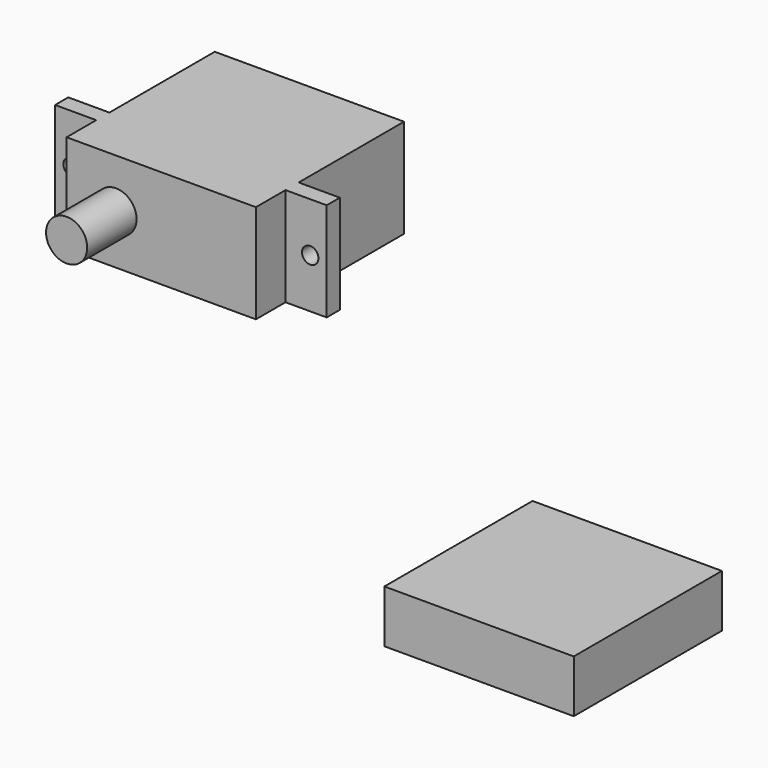
from build123d import *

# Parameters (mm, degrees)
F0_R     = 2.5
F1_DEPTH = 30
F2_DEPTH = 22.5
F3_START = 16
F3_DEPTH = 2
F0_W     = 23.0124
F0_H     = 6.4
F4_DEPTH = 22.5044


with BuildPart() as f1:
    # F0 (on Front) → F1 (new body)
    with BuildSketch(Plane.XZ):
        with Locations((-19.3797349334, 3.4082894735)):
            Circle(F0_R)
    extrude(amount=F1_DEPTH)

    # F0 (on Front) → F2 (join)
    with BuildSketch(Plane.XZ):
        Polygon((-2.3797349334, 9.4082894735), (-25.3797349334, 9.4082894735), (-25.3797349334, 3.4082894735), (-25.3797349334, -2.5917105265), (-2.3797349334, -2.5917105265), (-2.3797349334, 3.4082894735), align=None)
        with Locations((-19.3797349334, 3.4082894735)):
            Circle(F0_R, mode=Mode.SUBTRACT)
    extrude(amount=F2_DEPTH)

    # F0 (on Front) → F3 (join)
    with BuildSketch(Plane.XZ.offset(F3_START)):
        with BuildLine():
            Line((2.6202650666, 9.4082894735), (-2.3797349334, 9.4082894735))
            Line((-2.3797349334, 9.4082894735), (-2.3797349334, 3.4082894735))
            Line((-2.3797349334, 3.4082894735), (-0.3797349334, 3.4082894735))
            ThreePointArc((-0.3797349334, 3.4082894735), (0.6202650666, 4.4082894735), (1.6202650666, 3.4082894735))
            Line((1.6202650666, 3.4082894735), (2.6202650666, 3.4082894735))
            Line((2.6202650666, 3.4082894735), (2.6202650666, 9.4082894735))
        make_face()
        with BuildLine():
            Line((-25.3797349334, 3.4082894735), (-25.3797349334, 9.4082894735))
            Line((-25.3797349334, 9.4082894735), (-30.3797349334, 9.4082894735))
            Line((-30.3797349334, 9.4082894735), (-30.3797349334, 3.4082894735))
            Line((-30.3797349334, 3.4082894735), (-29.3797349334, 3.4082894735))
            ThreePointArc((-29.3797349334, 3.4082894735), (-28.3797349334, 4.4082894735), (-27.3797349334, 3.4082894735))
            Line((-27.3797349334, 3.4082894735), (-25.3797349334, 3.4082894735))
        make_face()
        with BuildLine():
            Line((-25.3797349334, -2.5917105265), (-25.3797349334, 3.4082894735))
            Line((-25.3797349334, 3.4082894735), (-27.3797349334, 3.4082894735))
            ThreePointArc((-27.3797349334, 3.4082894735), (-28.3797349334, 2.4082894735), (-29.3797349334, 3.4082894735))
            Line((-29.3797349334, 3.4082894735), (-30.3797349334, 3.4082894735))
            Line((-30.3797349334, 3.4082894735), (-30.3797349334, -2.5917105265))
            Line((-30.3797349334, -2.5917105265), (-25.3797349334, -2.5917105265))
        make_face()
        with BuildLine():
            Line((-0.3797349334, 3.4082894735), (-2.3797349334, 3.4082894735))
            Line((-2.3797349334, 3.4082894735), (-2.3797349334, -2.5917105265))
            Line((-2.3797349334, -2.5917105265), (2.6202650666, -2.5917105265))
            Line((2.6202650666, -2.5917105265), (2.6202650666, 3.4082894735))
            Line((2.6202650666, 3.4082894735), (1.6202650666, 3.4082894735))
            ThreePointArc((1.6202650666, 3.4082894735), (0.6202650666, 2.4082894735), (-0.3797349334, 3.4082894735))
        make_face()
    extrude(amount=F3_DEPTH)


with BuildPart() as f4:
    # F0 (on Front) → F4 (new body)
    with BuildSketch(Plane.XZ):
        with Locations((24.7409354665, -29.2852652848)):
            Rectangle(F0_W, F0_H)
    extrude(amount=F4_DEPTH)


solid = Compound([f1.part, f4.part])
